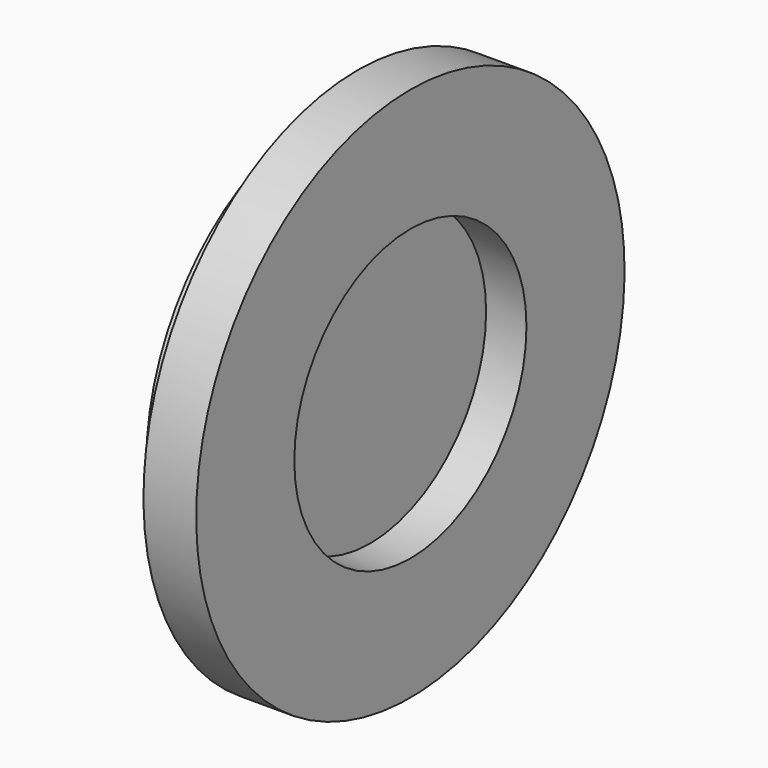
from build123d import *

# Parameters (mm, degrees)
F0_W = 27.8638
F0_H = 10.031


with BuildPart() as f1:
    # F0 (on Front) → F1 (revolve)
    with BuildSketch(Plane.XZ):
        with Locations((13.9319, 5.0155)):
            Rectangle(F0_W, F0_H)
        Polygon((0, 41.684367), (0, 10.031), (27.8638, 10.031), (27.8638, 41.684367), (39.455254, 41.684367), (39.455254, 76.914167), (24.297304, 76.914167), (24.297304, 63.083827), (14.043399, 63.083827), (14.043399, 41.684367), align=None)
    revolve(axis=Axis((13.9319, 0, 0), (-1, 0, 0)))


solid = f1.part
